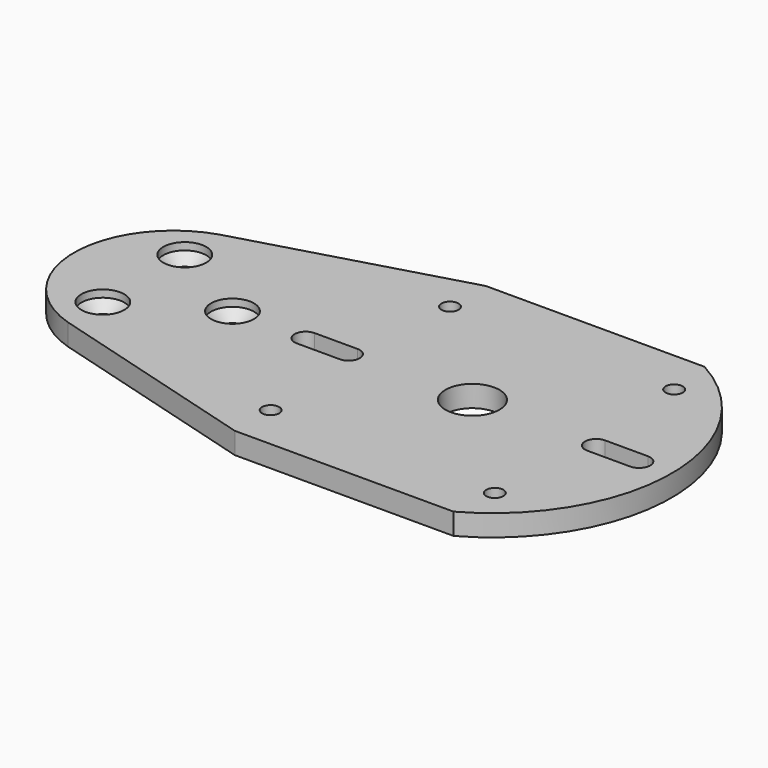
from build123d import *

# Parameters (mm, degrees)
F0_R     = 2.54
F0_R_2   = 3.5687
F0_R_3   = 8.001
F1_DEPTH = 6.35
F3_R     = 3.5687
F4_DEPTH = 4.953
F4_TAPER = -45
F5_R     = 8.5217
F5_R_2   = 6.35
F6_DEPTH = 4.953


with BuildPart() as f1:
    # F0 (on Top) → F1 (new body)
    with BuildSketch(Plane.XY):
        with BuildLine():
            Line((90.7821191281, 46.4983058831), (25.955052352, 46.4983058831))
            Line((25.955052352, 46.4983058831), (-38.227, 28.1307150105))
            ThreePointArc((-38.227, 28.1307150105), (-58.928, 0), (-38.227, -28.1307150105))
            Line((-38.227, -28.1307150105), (25.955052352, -46.4983058831))
            Line((25.955052352, -46.4983058831), (90.7821191281, -46.4983058831))
            ThreePointArc((90.7821191281, -46.4983058831), (118.2538107645, 0), (90.7821191281, 46.4983058831))
        make_face()
        with Locations((25.955052352, -33.226947648)):
            Circle(F0_R, mode=Mode.SUBTRACT)
        with Locations((-38.227, -15.1779612267)):
            Circle(F0_R_2, mode=Mode.SUBTRACT)
        with Locations((92.408947648, -33.226947648)):
            Circle(F0_R, mode=Mode.SUBTRACT)
        with Locations((-38.227, 15.1779612267)):
            Circle(F0_R_2, mode=Mode.SUBTRACT)
        with Locations((-11.938, 0)):
            Circle(F0_R_2, mode=Mode.SUBTRACT)
        with BuildLine():
            ThreePointArc((22.5003193406, 3.302), (25.8023193406, 0), (22.5003193406, -3.302))
            Line((22.5003193406, -3.302), (9.7621892355, -3.302))
            ThreePointArc((9.7621892355, -3.302), (6.4601892355, 0), (9.7621892355, 3.302))
            Line((9.7621892355, 3.302), (22.5003193406, 3.302))
        make_face(mode=Mode.SUBTRACT)
        with Locations((25.955052352, 33.226947648)):
            Circle(F0_R, mode=Mode.SUBTRACT)
        with Locations((59.182, 0)):
            Circle(F0_R_3, mode=Mode.SUBTRACT)
        with BuildLine():
            ThreePointArc((95.8636806594, -3.302), (92.5616806594, 0), (95.8636806594, 3.302))
            Line((95.8636806594, 3.302), (108.6018107645, 3.302))
            ThreePointArc((108.6018107645, 3.302), (111.9038107645, 0), (108.6018107645, -3.302))
            Line((108.6018107645, -3.302), (95.8636806594, -3.302))
        make_face(mode=Mode.SUBTRACT)
        with Locations((92.408947648, 33.226947648)):
            Circle(F0_R, mode=Mode.SUBTRACT)
    extrude(amount=-F1_DEPTH)

    # F3 (on offset) → F4 (cut, through all)
    with BuildSketch(Plane(origin=(0, 0, -4.953), x_dir=(1, 0, 0), z_dir=(0, 0, -1))):
        with Locations((-38.227, 15.1779612267)):
            Circle(F3_R)
        with Locations((-38.227, -15.1779612267)):
            Circle(F3_R)
        with Locations((-11.938, 0)):
            Circle(F3_R)
    extrude(amount=-F4_DEPTH, taper=F4_TAPER, mode=Mode.SUBTRACT)

    # F5 (on face) → F6 (join, through all)
    with BuildSketch(Plane.XY):
        with Locations((-11.938, 0)):
            Circle(F5_R)
        with Locations((-11.938, 0)):
            Circle(F5_R_2, mode=Mode.SUBTRACT)
        with Locations((-38.227, 15.1779612267)):
            Circle(F5_R)
        with Locations((-38.227, 15.1779612267)):
            Circle(F5_R_2, mode=Mode.SUBTRACT)
        with Locations((-38.227, -15.1779612267)):
            Circle(F5_R)
        with Locations((-38.227, -15.1779612267)):
            Circle(F5_R_2, mode=Mode.SUBTRACT)
    extrude(amount=-F6_DEPTH)


solid = f1.part
